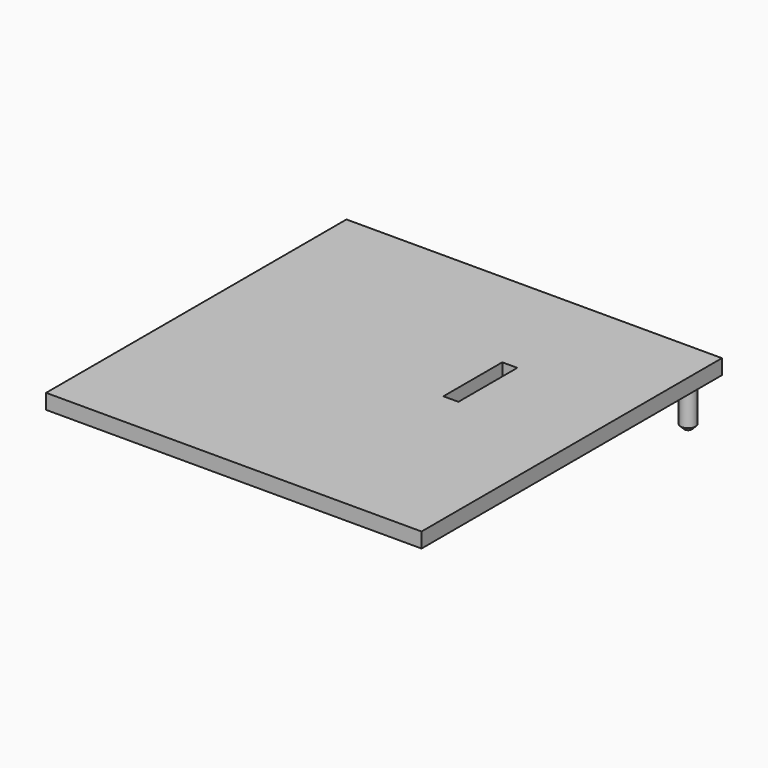
from build123d import *

# Parameters (mm, degrees)
F0_W          = 63.5
F0_H          = 63.5
F0_R          = 1.27
F0_W_2        = 2.54
F0_H_2        = 12.446
F1_DEPTH      = 2.54
F2_R          = 1.27
F3_DEPTH      = 2.54
F3_DEPTH_BACK = 7.62
F4_DEPTH      = 9.525
F5_SIZE       = 0.6477


with BuildPart() as f1:
    # F0 (on Top) → F1 (new body)
    with BuildSketch(Plane.XY):
        with Locations((31.75, 31.75)):
            Rectangle(F0_W, F0_H)
        with Locations((31.353125, 47.625)):
            Circle(F0_R, mode=Mode.SUBTRACT)
        with Locations((42.8625, 38.227)):
            Rectangle(F0_W_2, F0_H_2, mode=Mode.SUBTRACT)
        with Locations((60.325, 60.325)):
            Circle(F0_R, mode=Mode.SUBTRACT)
    extrude(amount=F1_DEPTH)

    # F2 (on Top) → F3 (join, two sides)
    with BuildSketch(Plane.XY) as f3_sk:
        with Locations((31.353125, 47.625)):
            Circle(F2_R)
        with Locations((60.325, 60.325)):
            Circle(F2_R)
    extrude(amount=F3_DEPTH)
    extrude(f3_sk.sketch, amount=-F3_DEPTH_BACK)

    # F2 (on Top) → F4 (join)
    with BuildSketch(Plane.XY):
        with Locations((31.353125, 47.625)):
            Circle(F2_R)
    extrude(amount=-F4_DEPTH)

    # F5
    f5_edges = [f1.edges().sort_by_distance(p)[0] for p in [
        (59.055, 60.325, -7.62),
        (30.083125, 47.625, -9.525),
    ]]
    chamfer(f5_edges, length=F5_SIZE)


solid = f1.part
